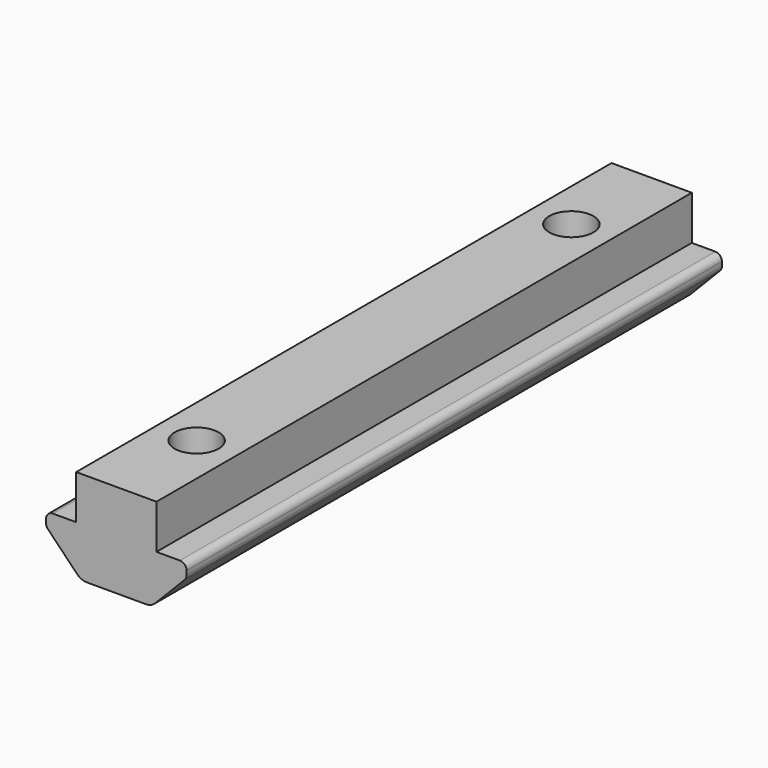
from build123d import *

# Parameters (mm, degrees)
F1_DEPTH = 50
F3_D     = 3.3


with BuildPart() as f1:
    # F0 (on Front) → F1 (new body)
    with BuildSketch(Plane.XZ):
        with BuildLine():
            ThreePointArc((-2.9195071176, 0.3029216067), (-2.5916918532, 0.0788381268), (-2.2025121988, 0))
            Line((-2.2025121988, 0), (2.2025121988, 0))
            ThreePointArc((2.2025121988, 0), (2.5916918532, 0.0788381268), (2.9195071176, 0.3029216067))
            Line((2.9195071176, 0.3029216067), (5.1084974594, 2.5544545297))
            ThreePointArc((5.1084974594, 2.5544545297), (5.2132756899, 2.7149096091), (5.25, 2.9029937263))
            Line((5.25, 2.9029937263), (5.25, 3.2))
            ThreePointArc((5.25, 3.2), (5.1035533906, 3.5535533906), (4.75, 3.7))
            Line((4.75, 3.7), (3, 3.7))
            Line((3, 3.7), (3, 7))
            Line((3, 7), (-3, 7))
            Line((-3, 7), (-3, 3.7))
            Line((-3, 3.7), (-4.75, 3.7))
            ThreePointArc((-4.75, 3.7), (-5.1035533906, 3.5535533906), (-5.25, 3.2))
            Line((-5.25, 3.2), (-5.25, 2.9029937263))
            ThreePointArc((-5.25, 2.9029937263), (-5.2132756899, 2.7149096091), (-5.1084974594, 2.5544545297))
            Line((-5.1084974594, 2.5544545297), (-2.9195071176, 0.3029216067))
        make_face()
    extrude(amount=F1_DEPTH)

    # F3 (through all)
    with Locations(Plane.XY.offset(7)):
        with Locations((0, -42.5), (0, -7.5)):
            Hole(F3_D / 2)


solid = f1.part
